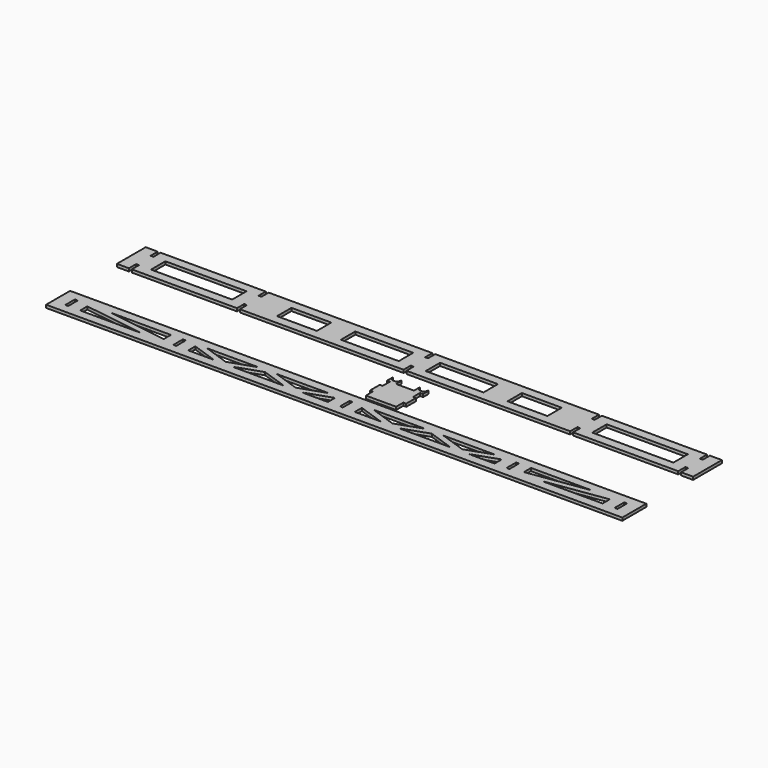
from build123d import *

# Parameters (mm, degrees)
F0_W     = 343.408
F0_H     = 76.2
F0_W_2   = 168.656
F0_W_3   = 244.856
F0_W_4   = 2438.4
F0_H_2   = 127
F0_W_5   = 12.192
F0_H_3   = 50.8
F0_W_6   = 76.2
F1_DEPTH = 12.192


with BuildPart() as f1:
    # F0 (on Top) → F1 (new body)
    with BuildSketch(Plane.XY):
        Polygon((-1168.4, 44.45), (-1219.2, 44.45), (-1219.2, -107.95), (-1168.4, -107.95), (-1168.4, -69.85), (-1156.208, -69.85), (-1156.208, -107.95), (-711.2, -107.95), (-711.2, -69.85), (-699.008, -69.85), (-699.008, -107.95), (-6.096, -107.95), (-6.096, -69.85), (6.096, -69.85), (6.096, -107.95), (699.008, -107.95), (699.008, -69.85), (711.2, -69.85), (711.2, -107.95), (1156.208, -107.95), (1156.208, -69.85), (1168.4, -69.85), (1168.4, -107.95), (1219.2, -107.95), (1219.2, 44.45), (1168.4, 44.45), (1168.4, 6.35), (1156.208, 6.35), (1156.208, 44.45), (711.2, 44.45), (711.2, 6.35), (699.008, 6.35), (699.008, 44.45), (6.096, 44.45), (6.096, 6.35), (-6.096, 6.35), (-6.096, 44.45), (-699.008, 44.45), (-699.008, 6.35), (-711.2, 6.35), (-711.2, 44.45), (-1156.208, 44.45), (-1156.208, 6.35), (-1168.4, 6.35), align=None)
        with Locations((-933.704, -31.75)):
            Rectangle(F0_W, F0_H, mode=Mode.SUBTRACT)
        with Locations((-487.68, -31.75)):
            Rectangle(F0_W_2, F0_H, mode=Mode.SUBTRACT)
        with Locations((-179.324, -31.75)):
            Rectangle(F0_W_3, F0_H, mode=Mode.SUBTRACT)
        with Locations((179.324, -31.75)):
            Rectangle(F0_W_3, F0_H, mode=Mode.SUBTRACT)
        Polygon((572.008, 6.35), (648.208, 6.35), (648.208, -69.85), (572.008, -69.85), (403.352, -69.85), (403.352, 6.35), align=None, mode=Mode.SUBTRACT)
        with Locations((933.704, -31.75)):
            Rectangle(F0_W, F0_H, mode=Mode.SUBTRACT)
        with BuildLine():
            Line((114.3, -203.2), (38.1, -203.2))
            Line((38.1, -203.2), (38.1, -174.1805))
            Line((38.1, -174.1805), (35.8775, -174.1805))
            ThreePointArc((35.8775, -174.1805), (19.05, -191.008), (2.2225, -174.1805))
            Line((2.2225, -174.1805), (0, -174.1805))
            Line((0, -174.1805), (0, -203.2))
            Line((0, -203.2), (12.192, -203.2))
            Line((12.192, -203.2), (12.192, -241.3))
            Line((12.192, -241.3), (0, -241.3))
            Line((0, -241.3), (0, -292.1))
            Line((0, -292.1), (12.192, -292.1))
            Line((12.192, -292.1), (12.192, -330.2))
            Line((12.192, -330.2), (140.208, -330.2))
            Line((140.208, -330.2), (140.208, -292.1))
            Line((140.208, -292.1), (152.4, -292.1))
            Line((152.4, -292.1), (152.4, -241.3))
            Line((152.4, -241.3), (140.208, -241.3))
            Line((140.208, -241.3), (140.208, -203.2))
            Line((140.208, -203.2), (152.4, -203.2))
            Line((152.4, -203.2), (152.4, -174.1805))
            Line((152.4, -174.1805), (150.1775, -174.1805))
            ThreePointArc((150.1775, -174.1805), (133.35, -191.008), (116.5225, -174.1805))
            Line((116.5225, -174.1805), (114.3, -174.1805))
            Line((114.3, -174.1805), (114.3, -203.2))
        make_face()
        with Locations((0, -419.1)):
            Rectangle(F0_W_4, F0_H_2)
        with Locations((-1162.304, -419.1)):
            Rectangle(F0_W_5, F0_H_3, mode=Mode.SUBTRACT)
        Polygon((-1105.408, -406.538205), (-848.786266, -444.5), (-1105.408, -444.5), align=None, mode=Mode.SUBTRACT)
        Polygon((-762, -431.661795), (-1018.621734, -393.7), (-762, -393.7), align=None, mode=Mode.SUBTRACT)
        with Locations((-705.104, -419.1)):
            Rectangle(F0_W_5, F0_H_3, mode=Mode.SUBTRACT)
        Polygon((-648.208, -444.5), (-648.208, -407.128953), (-539.458253, -444.5), align=None, mode=Mode.SUBTRACT)
        Polygon((-500.38, -431.071047), (-609.129747, -393.7), (-391.630253, -393.7), align=None, mode=Mode.SUBTRACT)
        Polygon((-243.802253, -444.5), (-352.552, -444.5), (-461.301747, -444.5), (-352.552, -407.128953), align=None, mode=Mode.SUBTRACT)
        Polygon((-313.473747, -393.7), (-95.974253, -393.7), (-204.724, -431.071047), align=None, mode=Mode.SUBTRACT)
        Polygon((-56.896, -407.128953), (-56.896, -444.5), (-165.645747, -444.5), align=None, mode=Mode.SUBTRACT)
        with Locations((0, -419.1)):
            Rectangle(F0_W_5, F0_H_3, mode=Mode.SUBTRACT)
        Polygon((165.645747, -444.5), (56.896, -444.5), (56.896, -407.128953), align=None, mode=Mode.SUBTRACT)
        Polygon((95.974253, -393.7), (313.473747, -393.7), (204.724, -431.071047), align=None, mode=Mode.SUBTRACT)
        Polygon((352.552, -407.128953), (461.301747, -444.5), (352.552, -444.5), (243.802253, -444.5), align=None, mode=Mode.SUBTRACT)
        Polygon((609.129747, -393.7), (500.38, -431.071047), (391.630253, -393.7), align=None, mode=Mode.SUBTRACT)
        Polygon((648.208, -407.128953), (648.208, -444.5), (539.458253, -444.5), align=None, mode=Mode.SUBTRACT)
        with Locations((705.104, -419.1)):
            Rectangle(F0_W_5, F0_H_3, mode=Mode.SUBTRACT)
        Polygon((762, -393.7), (1018.621734, -393.7), (762, -431.661795), align=None, mode=Mode.SUBTRACT)
        Polygon((848.786266, -444.5), (1105.408, -406.538205), (1105.408, -444.5), align=None, mode=Mode.SUBTRACT)
        with Locations((1162.304, -419.1)):
            Rectangle(F0_W_5, F0_H_3, mode=Mode.SUBTRACT)
        Polygon((-1168.4, 44.45), (-1219.2, 44.45), (-1219.2, -107.95), (-1168.4, -107.95), (-1168.4, -69.85), (-1156.208, -69.85), (-1156.208, -107.95), (-711.2, -107.95), (-711.2, -69.85), (-699.008, -69.85), (-699.008, -107.95), (-6.096, -107.95), (-6.096, -69.85), (6.096, -69.85), (6.096, -107.95), (699.008, -107.95), (699.008, -69.85), (711.2, -69.85), (711.2, -107.95), (1156.208, -107.95), (1156.208, -69.85), (1168.4, -69.85), (1168.4, -107.95), (1219.2, -107.95), (1219.2, 44.45), (1168.4, 44.45), (1168.4, 6.35), (1156.208, 6.35), (1156.208, 44.45), (711.2, 44.45), (711.2, 6.35), (699.008, 6.35), (699.008, 44.45), (6.096, 44.45), (6.096, 6.35), (-6.096, 6.35), (-6.096, 44.45), (-699.008, 44.45), (-699.008, 6.35), (-711.2, 6.35), (-711.2, 44.45), (-1156.208, 44.45), (-1156.208, 6.35), (-1168.4, 6.35), align=None)
        with Locations((-933.704, -31.75)):
            Rectangle(F0_W, F0_H, mode=Mode.SUBTRACT)
        with Locations((-487.68, -31.75)):
            Rectangle(F0_W_2, F0_H, mode=Mode.SUBTRACT)
        with Locations((-179.324, -31.75)):
            Rectangle(F0_W_3, F0_H, mode=Mode.SUBTRACT)
        with Locations((179.324, -31.75)):
            Rectangle(F0_W_3, F0_H, mode=Mode.SUBTRACT)
        Polygon((572.008, 6.35), (648.208, 6.35), (648.208, -69.85), (572.008, -69.85), (403.352, -69.85), (403.352, 6.35), align=None, mode=Mode.SUBTRACT)
        with Locations((933.704, -31.75)):
            Rectangle(F0_W, F0_H, mode=Mode.SUBTRACT)
        with Locations((610.108, -31.75)):
            Rectangle(F0_W_6, F0_H)
    extrude(amount=F1_DEPTH)


solid = f1.part
